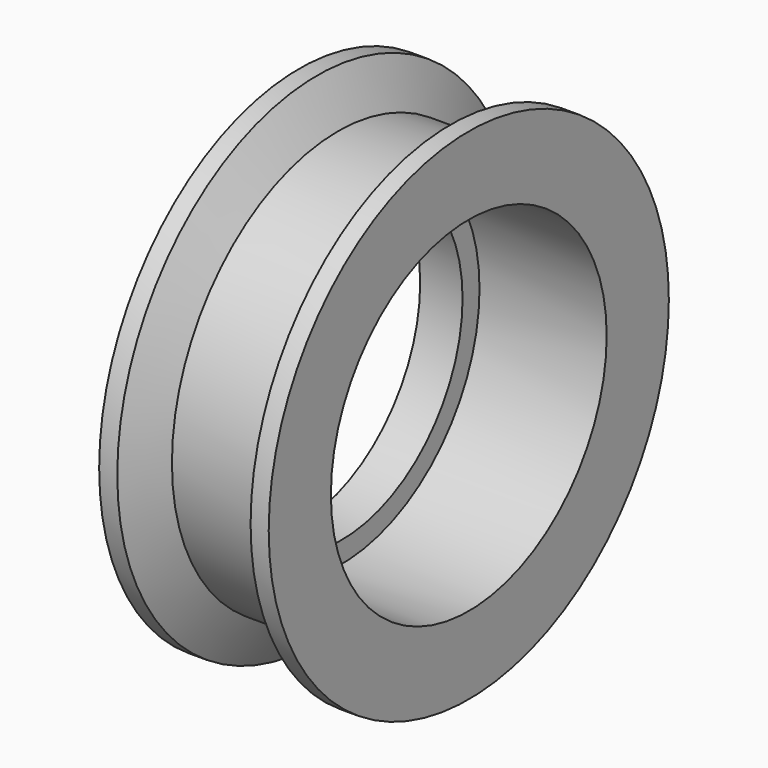
from build123d import *


with BuildPart() as part:
    # Sketch → Revolution (revolve)
    with BuildSketch(Plane.XY):
        Polygon((-6, 12.2), (-6, 17.7), (-4.717735, 17.7), (-3.25, 14.7), (3.25, 14.7), (4.717735, 17.7), (6, 17.7), (6, 12.2), (-3, 12.2), (-3, 10.7), (-6, 10.7), align=None)
    revolve(axis=Axis((0, 0, 0), (1, 0, 0)))


solid = part.part
